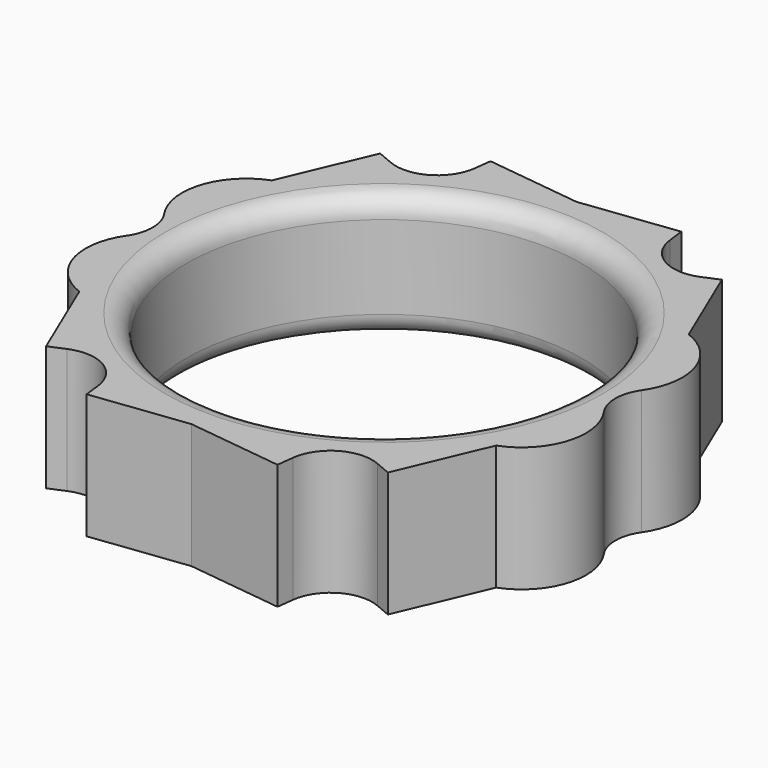
from build123d import *

# Parameters (mm, degrees)
F1_DEPTH = 6
F2_R     = 9.5
F3_DEPTH = 7
F4_R     = 2
F5_R     = 1


with BuildPart() as f1:
    # F0 (on Top) → F1 (new body)
    with BuildSketch(Plane.XY):
        Polygon((-8.198368, 10.017881), (-10, 5.773503), (-5, 8.660254), align=None)
        with BuildLine():
            ThreePointArc((-10, 5.773503), (-12, 2.886751), (-10, 0))
            Line((-10, 0), (-10, 5.773503))
        make_face()
        with BuildLine():
            ThreePointArc((-10, 0), (-12, -2.886751), (-10, -5.773503))
            Line((-10, -5.773503), (-10, 0))
        make_face()
        Polygon((-4.576555, 12.108936), (-5, 8.660254), (0, 11.547005), align=None)
        Polygon((4.576555, 12.108936), (0, 11.547005), (5, 8.660254), align=None)
        Polygon((0, -11.547005), (-5, -8.660254), (-4.576555, -12.108936), align=None)
        Polygon((8.198368, 10.017881), (5, 8.660254), (10, 5.773503), align=None)
        with BuildLine():
            Line((10, 0), (10, -5.773503))
            ThreePointArc((10, -5.773503), (12, -2.886751), (10, 0))
        make_face()
        with BuildLine():
            Line((10, 5.773503), (10, 0))
            ThreePointArc((10, 0), (12, 2.886751), (10, 5.773503))
        make_face()
        Polygon((-5, -8.660254), (-10, -5.773503), (-8.198368, -10.017881), align=None)
        Polygon((5, -8.660254), (0, -11.547005), (4.576555, -12.108936), align=None)
        Polygon((10, -5.773503), (5, -8.660254), (8.198368, -10.017881), align=None)
        Polygon((-10, 0), (-10, -5.773503), (-5, -8.660254), (0, -11.547005), (5, -8.660254), (10, -5.773503), (10, 0), (10, 5.773503), (5, 8.660254), (0, 11.547005), (-5, 8.660254), (-10, 5.773503), align=None)
    extrude(amount=F1_DEPTH)

    # F2 (on face) → F3 (cut)
    with BuildSketch(Plane(origin=(0, 0, 0), x_dir=(1, 0, 0), z_dir=(0, 0, -1))):
        Circle(F2_R)
    extrude(amount=-F3_DEPTH, mode=Mode.SUBTRACT)

    # F4
    f4_edges = [f1.edges().sort_by_distance(p)[0] for p in [
        (5, 8.660254, 3),
        (-5, 8.660254, 3),
        (5, -8.660254, 3),
        (-5, -8.660254, 3),
        (10, 0, 3),
        (-10, 0, 3),
    ]]
    fillet(f4_edges, radius=F4_R)

    # F5
    f5_edges = [f1.edges().sort_by_distance(p)[0] for p in [
        (-9.5, 0, 6),
        (-9.5, 0, 0),
    ]]
    fillet(f5_edges, radius=F5_R)


solid = f1.part
